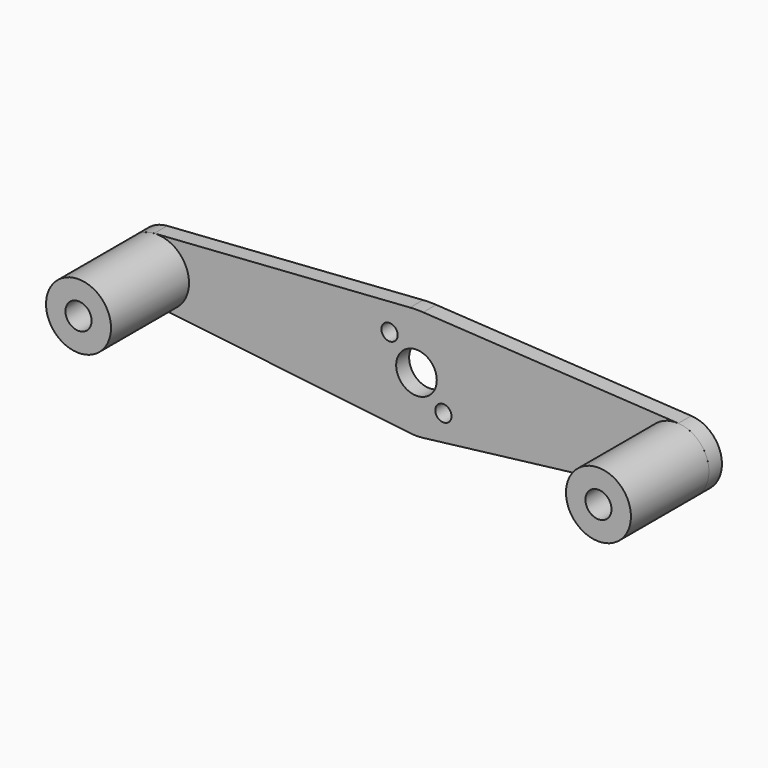
from build123d import *

# Parameters (mm, degrees)
F0_R     = 1.5875
F0_R_2   = 2.5527
F0_R_3   = 3.96875
F1_DEPTH = 3.175
F2_R     = 6.35
F2_R_2   = 2.5527
F3_DEPTH = 19.05


with BuildPart() as f1:
    # F0 (on Front) → F1 (new body)
    with BuildSketch(Plane.XZ):
        with BuildLine():
            Line((-1.254188, 9.211111), (-51.240707, 5.718725))
            ThreePointArc((-51.240707, 5.718725), (-57.02727, 0.617194), (-53.620567, -6.304099))
            Line((-53.620567, -6.304099), (-1.254188, -12.386111))
            ThreePointArc((-1.254188, -12.386111), (0.025462, -12.45867), (1.304758, -12.380118))
            Line((1.304758, -12.380118), (51.563991, -6.304099))
            ThreePointArc((51.563991, -6.304099), (57.148768, 0.198333), (51.168897, 6.339384))
            Line((51.168897, 6.339384), (1.304758, 9.226364))
            ThreePointArc((1.304758, 9.226364), (0.025042, 9.259562), (-1.254188, 9.211111))
        make_face()
        with Locations((5.26243, -6.84993)):
            Circle(F0_R, mode=Mode.SUBTRACT)
        with Locations((-50.798134, -0.615833)):
            Circle(F0_R_2, mode=Mode.SUBTRACT)
        with Locations((0, -1.5875)):
            Circle(F0_R_3, mode=Mode.SUBTRACT)
        with Locations((-5.26243, 3.67493)):
            Circle(F0_R, mode=Mode.SUBTRACT)
        with Locations((50.801866, 0)):
            Circle(F0_R_2, mode=Mode.SUBTRACT)
    extrude(amount=F1_DEPTH)


with BuildPart() as f3:
    # F2 (on face) → F3 (new body)
    with BuildSketch(Plane.XZ.offset(3.175)):
        with Locations((-50.798134, -0.615833)):
            Circle(F2_R)
        with Locations((-50.798134, -0.615833)):
            Circle(F2_R_2, mode=Mode.SUBTRACT)
        with Locations((50.801866, 0)):
            Circle(F2_R)
        with Locations((50.801866, 0)):
            Circle(F2_R_2, mode=Mode.SUBTRACT)
    extrude(amount=F3_DEPTH)


solid = Compound([f1.part, f3.part])
